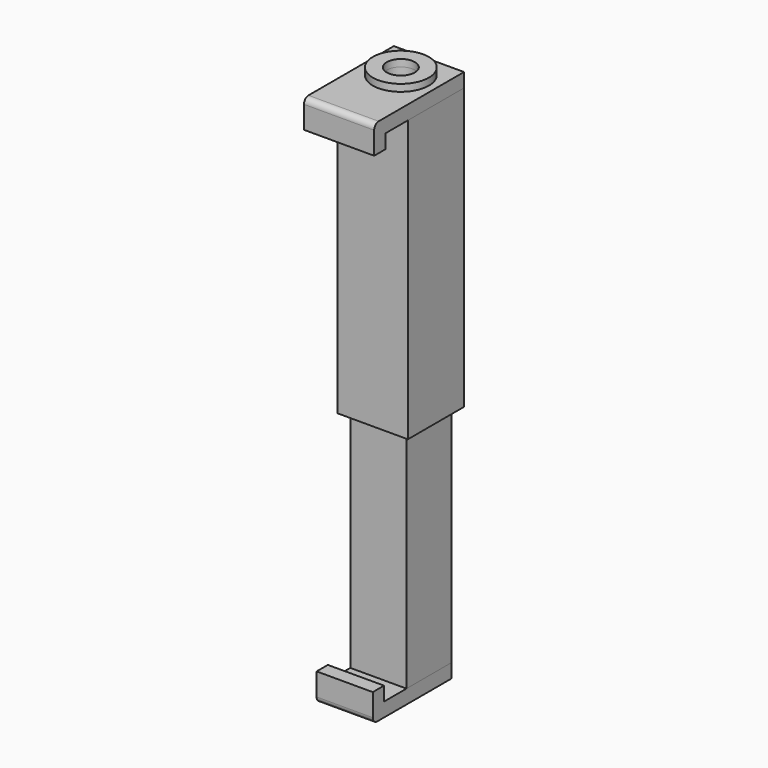
from build123d import *

# Parameters (mm, degrees)
F0_W      = 50.8
F0_H      = 50.8
F0_W_2    = 38.1
F0_H_2    = 38.1
F1_DEPTH  = 254
F0_W_3    = 63.5
F0_H_3    = 63.5
F0_W_4    = 53.9496
F0_H_4    = 53.9496
F2_DEPTH  = 254
F4_W      = 63.5
F4_H      = 88.9
F5_DEPTH  = 12.7
F6_W      = 63.5
F6_H      = 25.4
F7_DEPTH  = 12.7
F8_R      = 12.7
F9_DEPTH  = 25.4
F10_W     = 50.8
F10_H     = 76.2
F11_DEPTH = 12.7
F12_W     = 50.8
F12_H     = 25.4
F13_DEPTH = 12.7
F14_R     = 5.08
F15_R     = 5.08
F16_R     = 25.4
F16_R_2   = 12.7
F17_DEPTH = 6.35


with BuildPart() as f1:
    # F0 (on Top) → F1 (new body)
    with BuildSketch(Plane.XY):
        Rectangle(F0_W, F0_H)
        Rectangle(F0_W_2, F0_H_2, mode=Mode.SUBTRACT)
    extrude(amount=F1_DEPTH)


with BuildPart() as f2:
    # F0 (on Top) → F2 (new body)
    with BuildSketch(Plane.XY):
        Rectangle(F0_W_3, F0_H_3)
        Rectangle(F0_W_4, F0_H_4, mode=Mode.SUBTRACT)
    extrude(amount=F2_DEPTH)


with BuildPart() as f1_1:
    # F3: moved
    add(f1.part.moved(Location((0, 0, -203.2))))


with BuildPart() as f5:
    # F4 (on face) → F5 (new body)
    with BuildSketch(Plane.XY.offset(254)):
        with Locations((0, -12.7)):
            Rectangle(F4_W, F4_H)
    extrude(amount=F5_DEPTH)

    # F6 (on face) → F7 (join)
    with BuildSketch(Plane.XZ.offset(57.15)):
        with Locations((0, 254)):
            Rectangle(F6_W, F6_H)
    extrude(amount=F7_DEPTH)

    # F8 (on face) → F9 (cut)
    with BuildSketch(Plane.XY.offset(266.7)):
        Circle(F8_R)
    extrude(amount=-F9_DEPTH, mode=Mode.SUBTRACT)

    # F15
    f15_edges = [f5.edges().sort_by_distance(p)[0] for p in [
        (0, -69.85, 266.7),
    ]]
    fillet(f15_edges, radius=F15_R)


with BuildPart() as f11:
    # F10 (on face) → F11 (new body)
    with BuildSketch(Plane(origin=(0, 0, -203.2), x_dir=(1, 0, 0), z_dir=(0, 0, -1))):
        with Locations((0, 12.7)):
            Rectangle(F10_W, F10_H)
    extrude(amount=F11_DEPTH)

    # F12 (on face) → F13 (join)
    with BuildSketch(Plane.XZ.offset(50.8)):
        with Locations((0, -203.2)):
            Rectangle(F12_W, F12_H)
    extrude(amount=F13_DEPTH)

    # F14
    f14_edges = [f11.edges().sort_by_distance(p)[0] for p in [
        (0, -63.5, -215.9),
    ]]
    fillet(f14_edges, radius=F14_R)


with BuildPart() as f17:
    # F16 (on face) → F17 (new body)
    with BuildSketch(Plane.XY.offset(266.7)):
        Circle(F16_R)
        Circle(F16_R_2, mode=Mode.SUBTRACT)
    extrude(amount=F17_DEPTH)


solid = Compound([f2.part, f1_1.part, f5.part, f11.part, f17.part])
